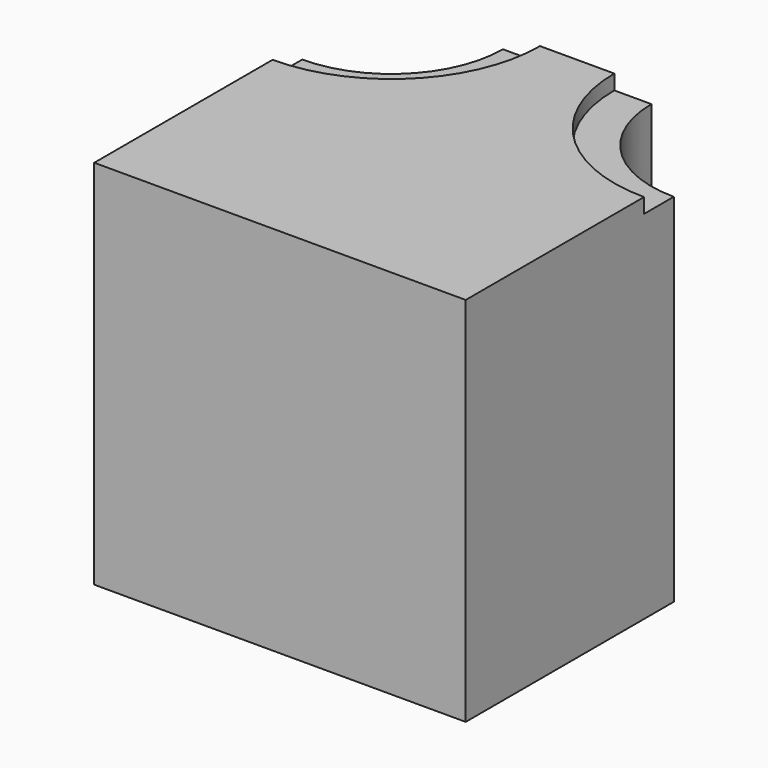
from build123d import *

# Parameters (mm, degrees)
F1_DEPTH = 250
F2_DEPTH = 240


with BuildPart() as f1:
    # F0 (on Top) → F1 (new body)
    with BuildSketch(Plane.XY):
        with BuildLine():
            Line((-118.746273, -26.595269), (-118.746273, -51.595269))
            Line((-118.746273, -51.595269), (-118.746273, -126.595269))
            Line((-118.746273, -126.595269), (-43.746273, -126.595269))
            Line((-43.746273, -126.595269), (-18.746273, -126.595269))
            Line((-18.746273, -126.595269), (31.253727, -126.595269))
            Line((31.253727, -126.595269), (56.253727, -126.595269))
            Line((56.253727, -126.595269), (131.253727, -126.595269))
            Line((131.253727, -126.595269), (131.253727, -51.595269))
            Line((131.253727, -51.595269), (131.253727, -26.595269))
            Line((131.253727, -26.595269), (131.253727, 23.404731))
            ThreePointArc((131.253727, 23.404731), (60.543048, 52.694053), (31.253727, 123.404731))
            Line((31.253727, 123.404731), (-18.746273, 123.404731))
            ThreePointArc((-18.746273, 123.404731), (-48.035595, 52.694053), (-118.746273, 23.404731))
            Line((-118.746273, 23.404731), (-118.746273, -26.595269))
        make_face()
    extrude(amount=F1_DEPTH)

    # F0 (on Top) → F2 (join)
    with BuildSketch(Plane.XY):
        with BuildLine():
            Line((-118.746273, 48.404731), (-118.746273, 23.404731))
            ThreePointArc((-118.746273, 23.404731), (-48.035595, 52.694053), (-18.746273, 123.404731))
            Line((-18.746273, 123.404731), (-43.746273, 123.404731))
            ThreePointArc((-43.746273, 123.404731), (-65.713265, 70.371723), (-118.746273, 48.404731))
        make_face()
        with BuildLine():
            Line((56.253727, 123.404731), (31.253727, 123.404731))
            ThreePointArc((31.253727, 123.404731), (60.543048, 52.694053), (131.253727, 23.404731))
            Line((131.253727, 23.404731), (131.253727, 48.404731))
            ThreePointArc((131.253727, 48.404731), (78.220718, 70.371723), (56.253727, 123.404731))
        make_face()
    extrude(amount=F2_DEPTH)


solid = f1.part
